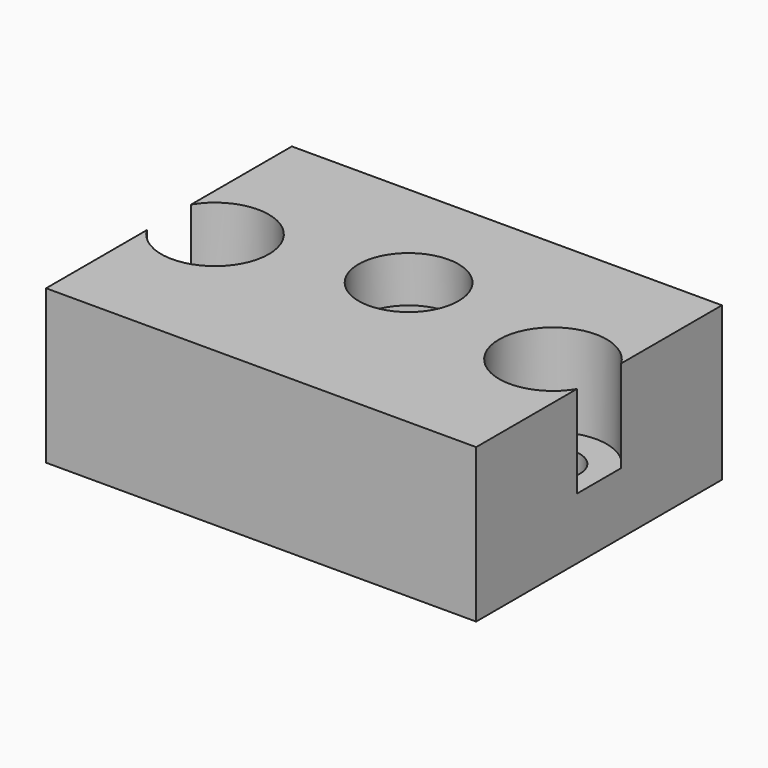
from build123d import *

# Parameters (mm, degrees)
SKETCH_W        = 28
SKETCH_H        = 20
SKETCH_R        = 1.75
PAD_DEPTH       = 4
PAD001_DEPTH    = 6
SKETCH002_R     = 3.25
POCKET_DEPTH    = 10
POCKET001_DEPTH = 7
SKETCH004_R     = 8.25
POCKET002_DEPTH = 2


with BuildPart() as part:
    # Sketch → Pad (new body)
    with BuildSketch(Plane.XY):
        Rectangle(SKETCH_W, SKETCH_H)
        with Locations((-11, 0)):
            Circle(SKETCH_R, mode=Mode.SUBTRACT)
        with Locations((11, 0)):
            Circle(SKETCH_R, mode=Mode.SUBTRACT)
    extrude(amount=PAD_DEPTH)

    # Sketch001 (on Face8 of Pad) → Pad001 (join)
    with BuildSketch(Plane.XY.offset(4)):
        with BuildLine():
            ThreePointArc((14, 1.802776), (7.5, 0), (14, -1.802776))
            Line((14, -1.802776), (14, -10))
            Line((14, -10), (-14, -10))
            Line((-14, -10), (-14, -1.802776))
            ThreePointArc((-14, -1.802776), (-7.5, 0), (-14, 1.802776))
            Line((-14, 1.802776), (-14, 10))
            Line((-14, 10), (14, 10))
            Line((14, 10), (14, 1.802776))
        make_face()
    extrude(amount=PAD001_DEPTH)

    # Sketch002 (on Face15 of Pad001) → Pocket (cut)
    with BuildSketch(Plane.XY.offset(10)):
        with Locations((0, 2)):
            Circle(SKETCH002_R)
    extrude(amount=-POCKET_DEPTH, mode=Mode.SUBTRACT)

    # Sketch003 (on Face4 of Pocket) → Pocket001 (cut)
    with BuildSketch(Plane(origin=(0, 0, 0), x_dir=(1, 0, 0), z_dir=(0, 0, -1))):
        Polygon((4.25, -4.453739), (4.25, 0.453739), (0, 2.907477), (-4.25, 0.453739), (-4.25, -4.453739), (0, -6.907477), align=None)
    extrude(amount=-POCKET001_DEPTH, mode=Mode.SUBTRACT)

    # Sketch004 (on Face4 of Pocket001) → Pocket002 (cut)
    with BuildSketch(Plane(origin=(0, 0, 0), x_dir=(1, 0, 0), z_dir=(0, 0, -1))):
        with Locations((0, -2)):
            Circle(SKETCH004_R)
    extrude(amount=-POCKET002_DEPTH, mode=Mode.SUBTRACT)


solid = part.part
